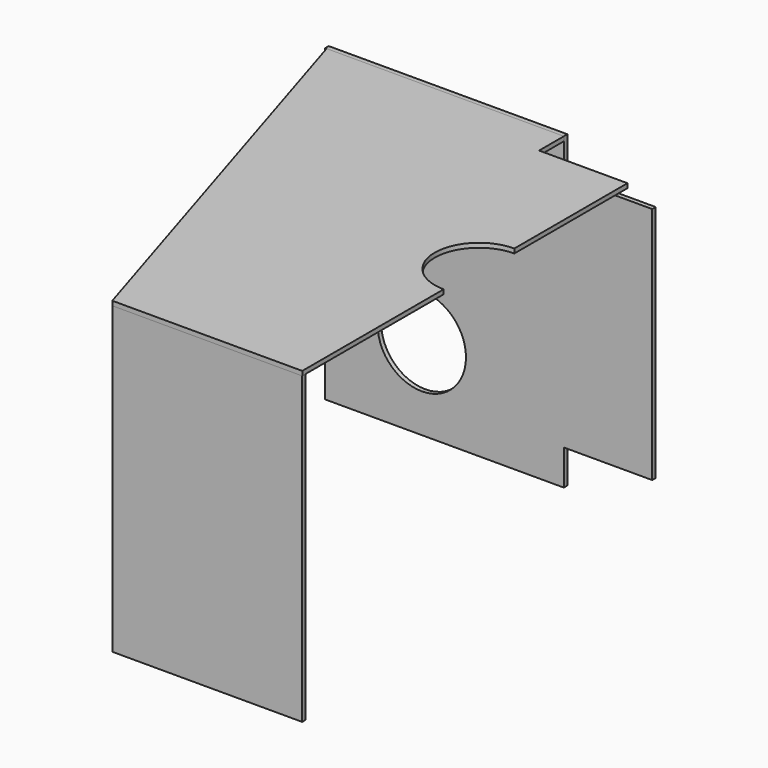
from build123d import *

# Parameters (mm, degrees)
F0_W     = 20
F0_H     = 54
F1_DEPTH = 1
F4_DEPTH = 1
F5_W     = 42.979176
F5_H     = 68.941915
F6_DEPTH = 1


with BuildPart() as f1:
    # F0 (on Front) → F1 (new body)
    with BuildSketch(Plane.XZ):
        with Locations((27.558972, 3.100805)):
            Rectangle(F0_W, F0_H)
        with BuildLine():
            Line((17.558972, -31.899195), (17.558972, -23.899195))
            Line((17.558972, -23.899195), (17.558972, 30.100805))
            Line((17.558972, 30.100805), (17.558972, 38.100805))
            Line((17.558972, 38.100805), (-14.588557, 38.100805))
            Line((-14.588557, 38.100805), (-14.588557, 25.407802))
            ThreePointArc((-14.588557, 25.407802), (-7.517489, 22.478869), (-4.588557, 15.407802))
            ThreePointArc((-4.588557, 15.407802), (-7.517489, 8.336734), (-14.588557, 5.407802))
            Line((-14.588557, 5.407802), (-14.588557, -3.168506))
            ThreePointArc((-14.588557, -3.168506), (-7.517489, -6.097439), (-4.588557, -13.168506))
            ThreePointArc((-4.588557, -13.168506), (-7.517489, -20.239574), (-14.588557, -23.168506))
            Line((-14.588557, -23.168506), (-14.588557, -31.899195))
            Line((-14.588557, -31.899195), (17.558972, -31.899195))
        make_face()
        with BuildLine():
            Line((-36.441028, -31.899195), (-14.588557, -31.899195))
            Line((-14.588557, -31.899195), (-14.588557, -23.168506))
            ThreePointArc((-14.588557, -23.168506), (-24.588557, -13.168506), (-14.588557, -3.168506))
            Line((-14.588557, -3.168506), (-14.588557, 5.407802))
            ThreePointArc((-14.588557, 5.407802), (-24.588557, 15.407802), (-14.588557, 25.407802))
            Line((-14.588557, 25.407802), (-14.588557, 38.100805))
            Line((-14.588557, 38.100805), (-36.441028, 38.100805))
            Line((-36.441028, 38.100805), (-36.441028, -31.899195))
        make_face()
    extrude(amount=F1_DEPTH)


with BuildPart() as f4:
    # F3 (on face) → F4 (new body)
    with BuildSketch(Plane.XY.offset(38.100805)):
        with BuildLine():
            Line((-36.131028, -1), (-5.441028, -100))
            Line((-5.441028, -100), (37.558972, -100))
            Line((37.558972, -100), (37.558972, -60))
            ThreePointArc((37.558972, -60), (27.558972, -50), (37.558972, -40))
            Line((37.558972, -40), (37.558972, -8))
            Line((37.558972, -8), (17.558972, -8))
            Line((17.558972, -8), (17.558972, -1))
            Line((17.558972, -1), (-36.131028, -1))
        make_face()
    extrude(amount=-F4_DEPTH)


with BuildPart() as f6:
    # F5 (on face) → F6 (new body)
    with BuildSketch(Plane.XZ.offset(100)):
        with Locations((16.04856, 2.629848)):
            Rectangle(F5_W, F5_H)
    extrude(amount=-F6_DEPTH)


solid = Compound([f1.part, f4.part, f6.part])
